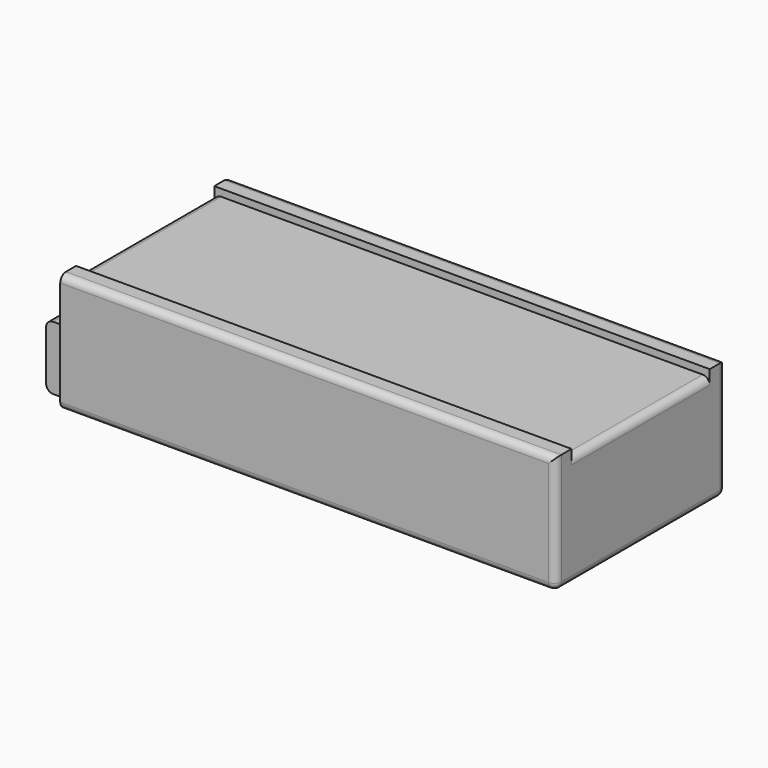
from build123d import *

# Parameters (mm, degrees)
F0_W     = 350
F0_H     = 150
F1_DEPTH = 84
F2_W     = 350
F2_H     = 122
F3_DEPTH = 5
F4_W     = 125
F4_H     = 45
F5_DEPTH = 20
F6_R     = 7.5
F7_DEPTH = 20
F8_R     = 4
F8_R_2   = 1.5
F9_DEPTH = 18
F10_R    = 5
F11_R    = 1


with BuildPart() as f1:
    # F0 (on Top) → F1 (new body)
    with BuildSketch(Plane.XY):
        with Locations((175, 75)):
            Rectangle(F0_W, F0_H)
    extrude(amount=F1_DEPTH)

    # F2 (on face) → F3 (cut)
    with BuildSketch(Plane.XY.offset(84)):
        with Locations((175, 75)):
            Rectangle(F2_W, F2_H)
    extrude(amount=-F3_DEPTH, mode=Mode.SUBTRACT)

    # F4 (on face) → F5 (join)
    with BuildSketch(Plane(origin=(0, 0, 0), x_dir=(0, -1, 0), z_dir=(-1, 0, 0))):
        with Locations((-75, 22.5)):
            Rectangle(F4_W, F4_H)
    extrude(amount=F5_DEPTH)

    # F6 (on face) → F7 (cut)
    with BuildSketch(Plane(origin=(0, 137.5, 0), x_dir=(-1, 0, 0), z_dir=(0, 1, 0))):
        with Locations((10, 31.452831)):
            Circle(F6_R)
    extrude(amount=-F7_DEPTH, mode=Mode.SUBTRACT)

    # F8 (on face) → F9 (join)
    with BuildSketch(Plane(origin=(0, 117.5, 0), x_dir=(-1, 0, 0), z_dir=(0, 1, 0))):
        with Locations((10, 31.452831)):
            Circle(F8_R)
        with Locations((10, 31.452831)):
            Circle(F8_R_2, mode=Mode.SUBTRACT)
    extrude(amount=F9_DEPTH)

    # F10
    f10_edges = [f1.edges().sort_by_distance(p)[0] for p in [
        (175, 150, 84),
        (175, 150, 0),
        (175, 0, 84),
        (175, 0, 0),
        (350, 150, 42),
        (350, 75, 0),
        (350, 75, 79),
        (350, 0, 42),
        (0, 75, 79),
        (0, 150, 42),
        (-20, 75, 45),
        (-20, 75, 0),
    ]]
    fillet(f10_edges, radius=F10_R)

    # F11
    f11_edges = [f1.edges().sort_by_distance(p)[0] for p in [
        (-6, 135.5, 31.452831),
    ]]
    fillet(f11_edges, radius=F11_R)


solid = f1.part
